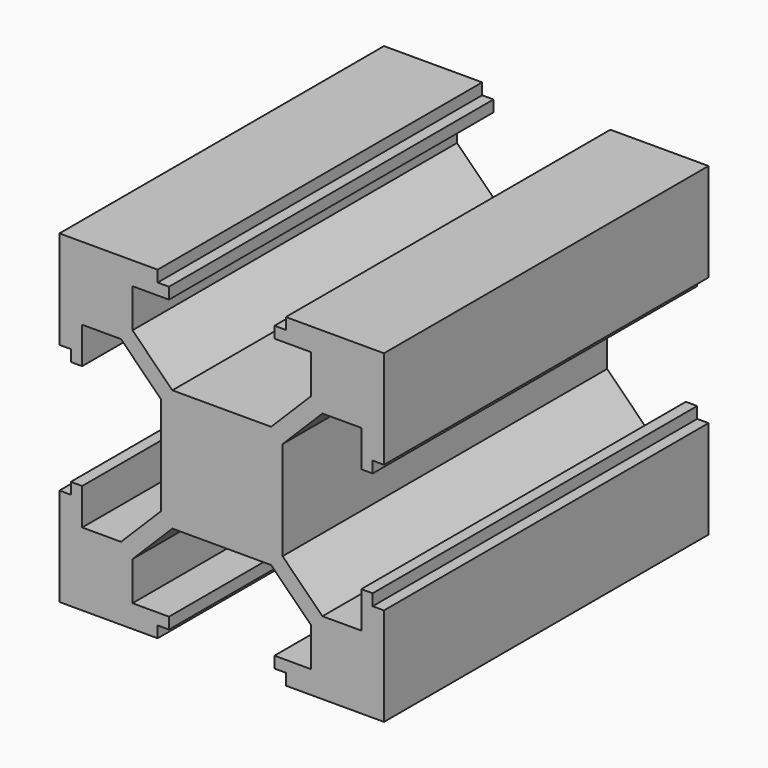
from build123d import *

# Parameters (mm, degrees)
F1_DEPTH = 25


with BuildPart() as f1:
    # F0 (on Front) → F1 (new body)
    with BuildSketch(Plane.XZ):
        Polygon((10, 3.95), (10, 10), (3.95, 10), (3.95, 9.3), (3.25, 9.3), (3.25, 8.6), (5.5, 8.6), (5.5, 6.207107), (3.042893, 3.75), (0, 3.75), (-3.042893, 3.75), (-5.5, 6.207107), (-5.5, 8.6), (-3.25, 8.6), (-3.25, 9.3), (-3.95, 9.3), (-3.95, 10), (-10, 10), (-10, 3.95), (-9.3, 3.95), (-9.3, 3.25), (-8.6, 3.25), (-8.6, 5.5), (-6.207107, 5.5), (-3.75, 3.042893), (-3.75, 0), (-3.75, -3.042893), (-6.207107, -5.5), (-8.6, -5.5), (-8.6, -3.25), (-9.3, -3.25), (-9.3, -3.95), (-10, -3.95), (-10, -10), (-3.95, -10), (-3.95, -9.3), (-3.25, -9.3), (-3.25, -8.6), (-5.5, -8.6), (-5.5, -6.207107), (-3.042893, -3.75), (0, -3.75), (3.042893, -3.75), (5.5, -6.207107), (5.5, -8.6), (3.25, -8.6), (3.25, -9.3), (3.95, -9.3), (3.95, -10), (10, -10), (10, -3.95), (9.3, -3.95), (9.3, -3.25), (8.6, -3.25), (8.6, -5.5), (6.207107, -5.5), (3.75, -3.042893), (3.75, 0), (3.75, 3.042893), (6.207107, 5.5), (8.6, 5.5), (8.6, 3.25), (9.3, 3.25), (9.3, 3.95), align=None)
    extrude(amount=-F1_DEPTH)


solid = f1.part
